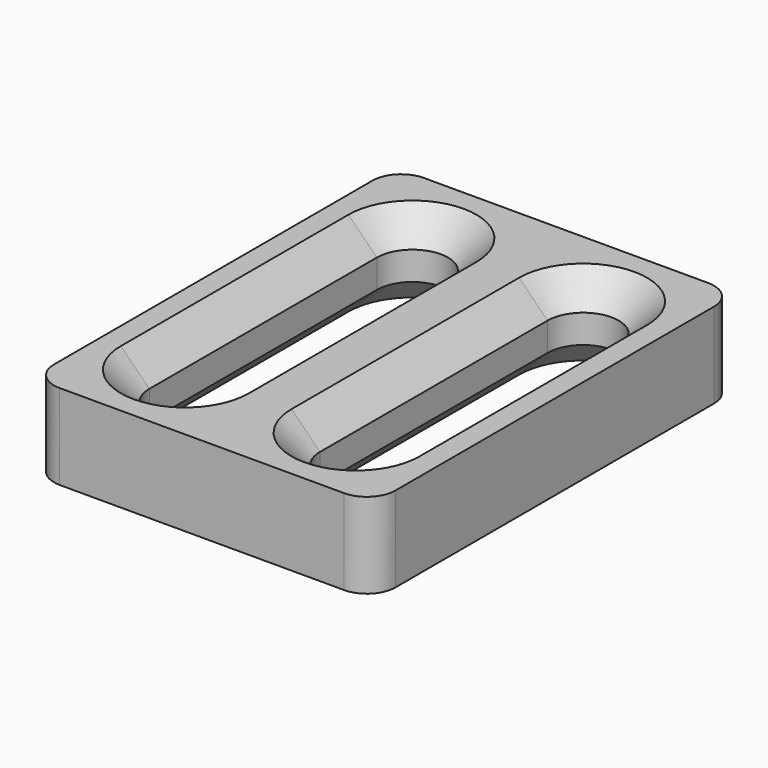
from build123d import *

# Parameters (mm, degrees)
SKETCH_W     = 12
SKETCH_H     = 16
PAD_DEPTH    = 3
CHAMFER_SIZE = 1
FILLET_R     = 1


with BuildPart() as part:
    # Sketch → Pad (new body)
    with BuildSketch(Plane.XY):
        with Locations((6, 8)):
            Rectangle(SKETCH_W, SKETCH_H)
        with BuildLine():
            ThreePointArc((4.25, 13), (3, 14.25), (1.75, 13))
            Line((1.75, 13), (1.75, 3))
            ThreePointArc((1.75, 3), (3, 1.75), (4.25, 3))
            Line((4.25, 13), (4.25, 3))
        make_face(mode=Mode.SUBTRACT)
        with BuildLine():
            ThreePointArc((10.25, 13), (9, 14.25), (7.75, 13))
            Line((7.75, 13), (7.75, 3))
            ThreePointArc((7.75, 3), (9, 1.75), (10.25, 3))
            Line((10.25, 13), (10.25, 3))
        make_face(mode=Mode.SUBTRACT)
    extrude(amount=PAD_DEPTH)

    # Chamfer
    chamfer_edges = [part.edges().sort_by_distance(p)[0] for p in [
        (4.25, 8, 3),
        (4.25, 8, 0),
        (10.25, 8, 0),
        (10.25, 8, 3),
    ]]
    chamfer(chamfer_edges, length=CHAMFER_SIZE)

    # Fillet
    fillet_edges = [part.edges().sort_by_distance(p)[0] for p in [
        (0, 16, 1.5),
        (0, 0, 1.5),
        (12, 0, 1.5),
        (12, 16, 1.5),
    ]]
    fillet(fillet_edges, radius=FILLET_R)


solid = part.part
